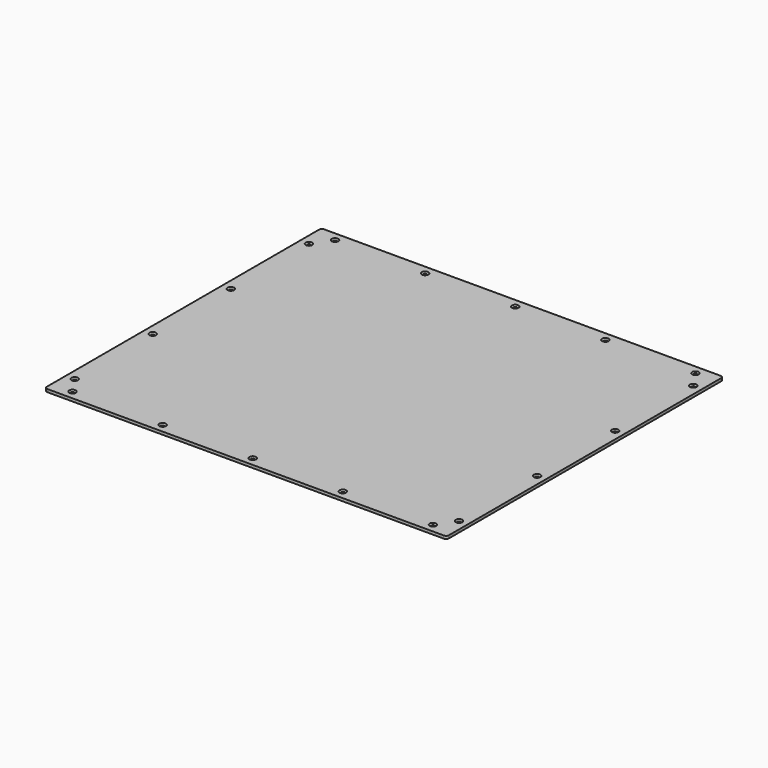
from build123d import *

# Parameters (mm, degrees)
F0_W           = 680
F0_H           = 585
F1_DEPTH       = 2.38125
F2_R           = 4.7625
F4_D           = 6.6294
F4_CSINK_D     = 11.2
F4_CSINK_ANGLE = 90


with BuildPart() as f1:
    # F0 (on Top) → F1 (new body, symmetric)
    with BuildSketch(Plane.XY):
        Rectangle(F0_W, F0_H)
    extrude(amount=F1_DEPTH, both=True)

    # F2
    f2_edges = [f1.edges().sort_by_distance(p)[0] for p in [
        (340, 292.5, 0),
        (340, -292.5, 0),
        (-340, -292.5, 0),
        (-340, 292.5, 0),
    ]]
    fillet(f2_edges, radius=F2_R)

    # F4 (through all)
    with Locations(Plane.XY.offset(2.38125)):
        with Locations((-325, 82.55), (-325, 247.65), (-325, -82.55), (-325, -247.65), (-304.8, -277.5), (-152.4, -277.5), (0, -277.5), (152.4, -277.5), (304.8, -277.5), (325, -247.65), (325, -82.55), (325, 82.55), (325, 247.65), (304.8, 277.5), (152.4, 277.5), (0, 277.5), (-152.4, 277.5), (-304.8, 277.5)):
            CounterSinkHole(F4_D / 2, F4_CSINK_D / 2, counter_sink_angle=F4_CSINK_ANGLE)


solid = f1.part
